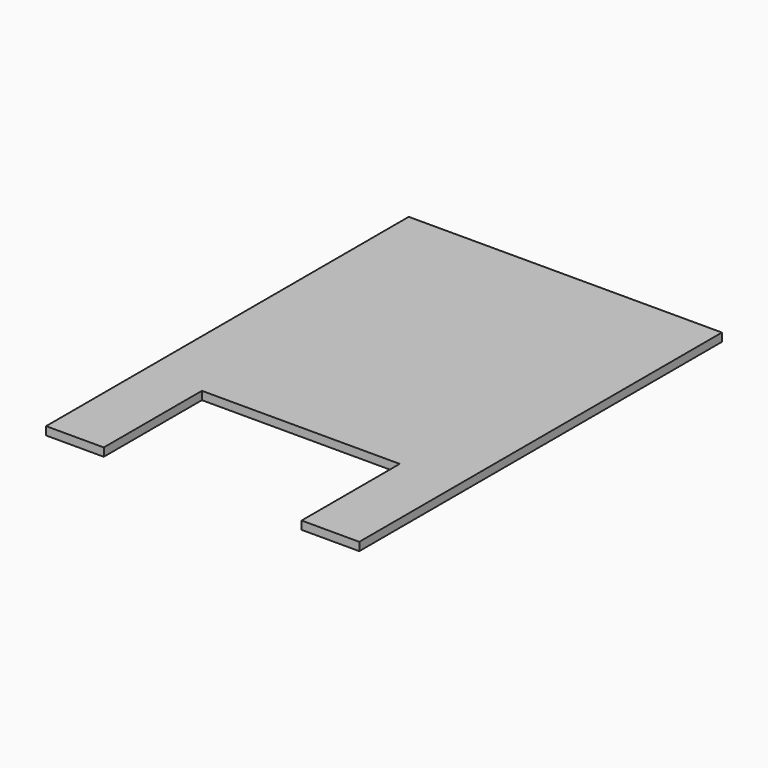
from build123d import *

# Parameters (mm, degrees)
F1_DEPTH = 6.35


with BuildPart() as f1:
    # F0 (on Top) → F1 (new body, symmetric)
    with BuildSketch(Plane.XY):
        Polygon((-24.555253, 268.265756), (-507.155253, 268.265756), (-507.155253, -430.234244), (-418.255253, -430.234244), (-418.255253, -241.235039), (-113.455253, -241.235039), (-113.455253, -430.234244), (-24.555253, -430.234244), align=None)
    extrude(amount=F1_DEPTH, both=True)


solid = f1.part
